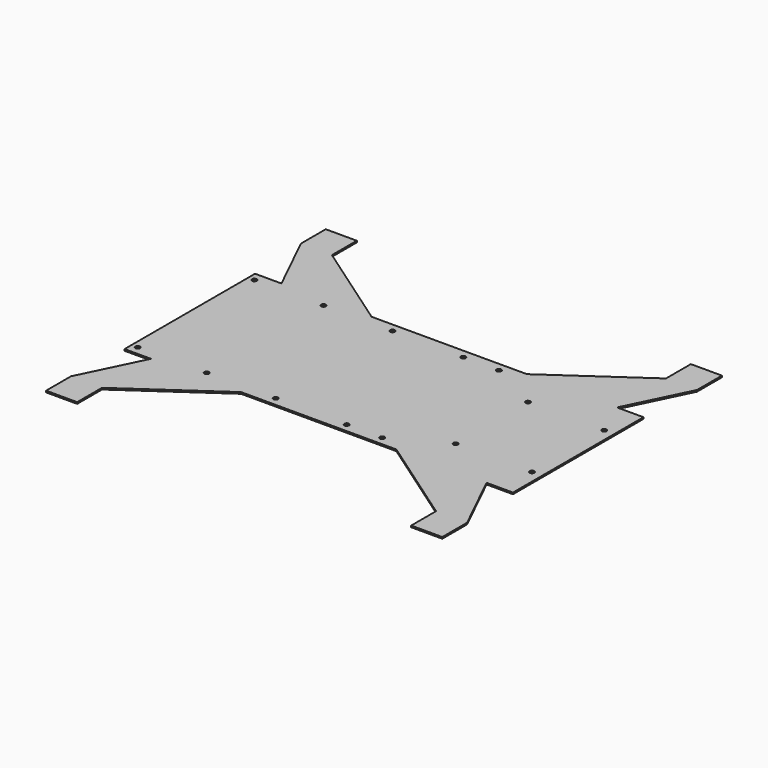
from build123d import *

# Parameters (mm, degrees)
SKETCH_R  = 1.5
PAD_DEPTH = 1


with BuildPart() as part:
    # Sketch → Pad (new body)
    with BuildSketch(Plane.XY):
        Polygon((-125, 52.5), (-108, 52.5), (-127.5, 92.5), (-127.5, 112.5), (-107.5, 112.5), (-107.5, 92.5), (-50, 52.5), (50, 52.5), (107.5, 92.5), (107.5, 112.5), (127.5, 112.5), (127.5, 92.5), (108, 52.5), (125, 52.5), (125, -52.5), (108, -52.5), (127.5, -92.5), (127.5, -112.5), (107.5, -112.5), (107.5, -92.5), (50, -52.5), (-50, -52.5), (-107.5, -92.5), (-107.5, -112.5), (-127.5, -112.5), (-127.5, -92.5), (-108, -52.5), (-125, -52.5), align=None)
        with Locations((-121, -46.965)):
            Circle(SKETCH_R, mode=Mode.SUBTRACT)
        with Locations((-76.58, -46.965)):
            Circle(SKETCH_R, mode=Mode.SUBTRACT)
        with Locations((-32.16, -46.965)):
            Circle(SKETCH_R, mode=Mode.SUBTRACT)
        with Locations((13.54, -46.965)):
            Circle(SKETCH_R, mode=Mode.SUBTRACT)
        with Locations((36.41, -46.965)):
            Circle(SKETCH_R, mode=Mode.SUBTRACT)
        with Locations((36.41, 46.965)):
            Circle(SKETCH_R, mode=Mode.SUBTRACT)
        with Locations((13.54, 46.965)):
            Circle(SKETCH_R, mode=Mode.SUBTRACT)
        with Locations((-32.16, 46.965)):
            Circle(SKETCH_R, mode=Mode.SUBTRACT)
        with Locations((-76.58, 46.965)):
            Circle(SKETCH_R, mode=Mode.SUBTRACT)
        with Locations((-121, 46.965)):
            Circle(SKETCH_R, mode=Mode.SUBTRACT)
        with Locations((69.35627, 29.07)):
            Circle(SKETCH_R, mode=Mode.SUBTRACT)
        with Locations((118.49627, 29.07)):
            Circle(SKETCH_R, mode=Mode.SUBTRACT)
        with Locations((69.35627, -29.07)):
            Circle(SKETCH_R, mode=Mode.SUBTRACT)
        with Locations((118.49627, -29.07)):
            Circle(SKETCH_R, mode=Mode.SUBTRACT)
    extrude(amount=PAD_DEPTH)


solid = part.part
